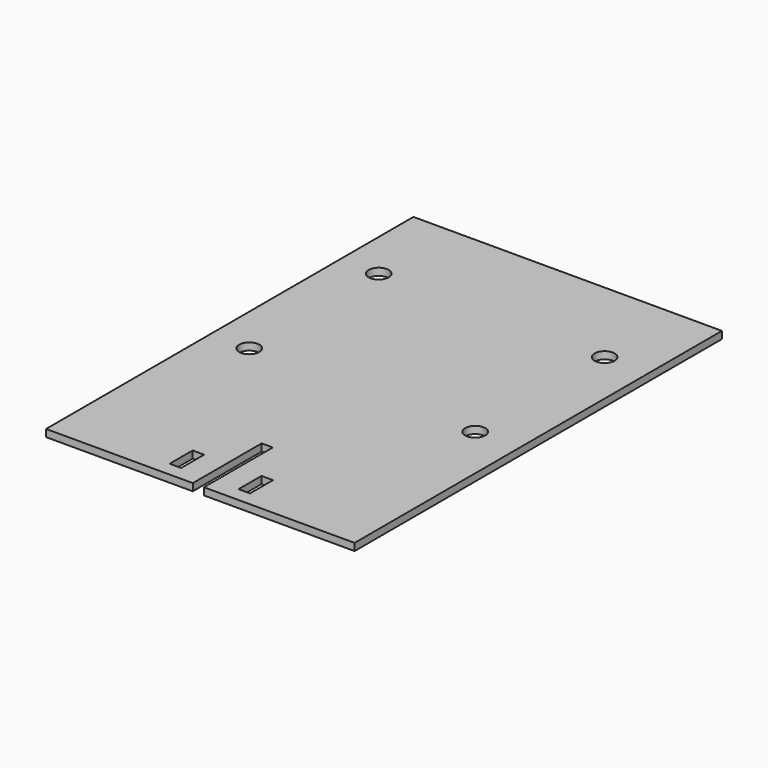
from build123d import *

# Parameters (mm, degrees)
F0_W     = 5.08
F0_H     = 12.7
F0_R     = 4.445
F1_DEPTH = 3.2004


with BuildPart() as f1:
    # F0 (on Top) → F1 (new body)
    with BuildSketch(Plane.XY):
        Polygon((69.388057, 76.443436), (-67.136943, 76.443436), (-67.136943, -126.756564), (-2.207863, -126.756564), (-2.207863, -88.656564), (2.715829, -88.656564), (2.715829, -126.756564), (69.388057, -126.756564), align=None)
        with Locations((-14.986017, -114.056564)):
            Rectangle(F0_W, F0_H, mode=Mode.SUBTRACT)
        with Locations((-49.991943, -35.7886)):
            Circle(F0_R, mode=Mode.SUBTRACT)
        with Locations((15.493983, -114.056564)):
            Rectangle(F0_W, F0_H, mode=Mode.SUBTRACT)
        with Locations((49.991943, -35.7886)):
            Circle(F0_R, mode=Mode.SUBTRACT)
        with Locations((-49.991943, 35.7886)):
            Circle(F0_R, mode=Mode.SUBTRACT)
        with Locations((49.991943, 35.7886)):
            Circle(F0_R, mode=Mode.SUBTRACT)
    extrude(amount=F1_DEPTH)


solid = f1.part
